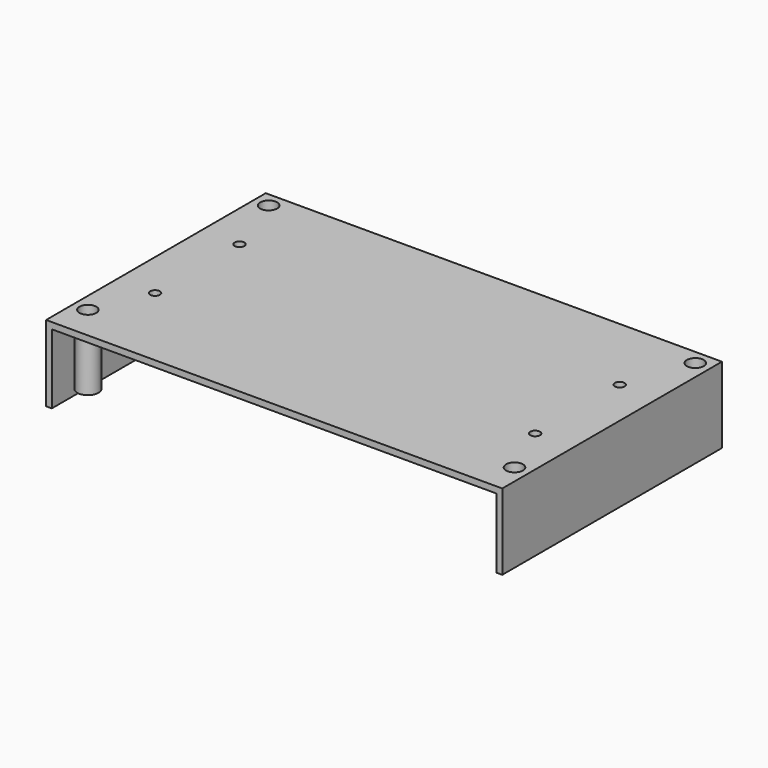
from build123d import *

# Parameters (mm, degrees)
SKETCH006_R  = 2.3
PAD006_DEPTH = 100
SKETCH005_W  = 216
SKETCH005_H  = 20
PAD005_DEPTH = 4
SKETCH004_R  = 4
PAD004_DEPTH = 50
SKETCH003_R  = 1.5
PAD003_DEPTH = 100
SKETCH002_R  = 5
PAD002_DEPTH = 30
SKETCH001_W  = 210.6
SKETCH001_H  = 127
PAD001_DEPTH = 33
SKETCH_W     = 216
SKETCH_H     = 130
PAD_DEPTH    = 36


with BuildPart() as sensor_head_mount_holes:
    # Sketch006 → Pad006 (new body)
    with BuildSketch(Plane.XY):
        with Locations((18, 42)):
            Circle(SKETCH006_R)
        with Locations((198, 42)):
            Circle(SKETCH006_R)
        with Locations((18, 92)):
            Circle(SKETCH006_R)
        with Locations((198, 92)):
            Circle(SKETCH006_R)
    extrude(amount=PAD006_DEPTH)


with BuildPart() as crossbeams:
    # Sketch005 → Pad005 (new body)
    with BuildSketch(Plane.XY.offset(29)):
        with Locations((108, 92)):
            Rectangle(SKETCH005_W, SKETCH005_H)
        with Locations((108, 42)):
            Rectangle(SKETCH005_W, SKETCH005_H)
    extrude(amount=PAD005_DEPTH)


with BuildPart() as screw_recesses:
    # Sketch004 → Pad004 (new body)
    with BuildSketch(Plane.XY.offset(8)):
        with Locations((7, 123)):
            Circle(SKETCH004_R)
        with Locations((7, 16)):
            Circle(SKETCH004_R)
        with Locations((209, 123)):
            Circle(SKETCH004_R)
        with Locations((209, 16)):
            Circle(SKETCH004_R)
    extrude(amount=PAD004_DEPTH)


with BuildPart() as screw_holes:
    # Sketch003 → Pad003 (new body)
    with BuildSketch(Plane.XY):
        with Locations((7, 123)):
            Circle(SKETCH003_R)
        with Locations((7, 16)):
            Circle(SKETCH003_R)
        with Locations((209, 123)):
            Circle(SKETCH003_R)
        with Locations((209, 16)):
            Circle(SKETCH003_R)
    extrude(amount=PAD003_DEPTH)


with BuildPart() as pylons:
    # Sketch002 → Pad002 (new body)
    with BuildSketch(Plane.XY.offset(3)):
        with Locations((7, 123)):
            Circle(SKETCH002_R)
        with Locations((7, 16)):
            Circle(SKETCH002_R)
        with Locations((209, 123)):
            Circle(SKETCH002_R)
        with Locations((209, 16)):
            Circle(SKETCH002_R)
    extrude(amount=PAD002_DEPTH)


with BuildPart() as interior_hole:
    # Sketch001 → Pad001 (new body)
    with BuildSketch(Plane.XY):
        with Locations((108, 63.5)):
            Rectangle(SKETCH001_W, SKETCH001_H)
    extrude(amount=PAD001_DEPTH)


with BuildPart() as cut003:
    # Sketch → Pad (new body)
    with BuildSketch(Plane.XY):
        with Locations((108, 65)):
            Rectangle(SKETCH_W, SKETCH_H)
    extrude(amount=PAD_DEPTH)

    # Cut: cut Interior Hole
    add(interior_hole.part, mode=Mode.SUBTRACT)

    # Fusion: union Pylons
    add(pylons.part)

    # Cut001: cut Screw Holes
    add(screw_holes.part, mode=Mode.SUBTRACT)

    # Cut002: cut Screw Recesses
    add(screw_recesses.part, mode=Mode.SUBTRACT)

    # Fusion001: union Crossbeams
    add(crossbeams.part)

    # Cut003: cut Sensor Head Mount Holes
    add(sensor_head_mount_holes.part, mode=Mode.SUBTRACT)


solid = cut003.part
